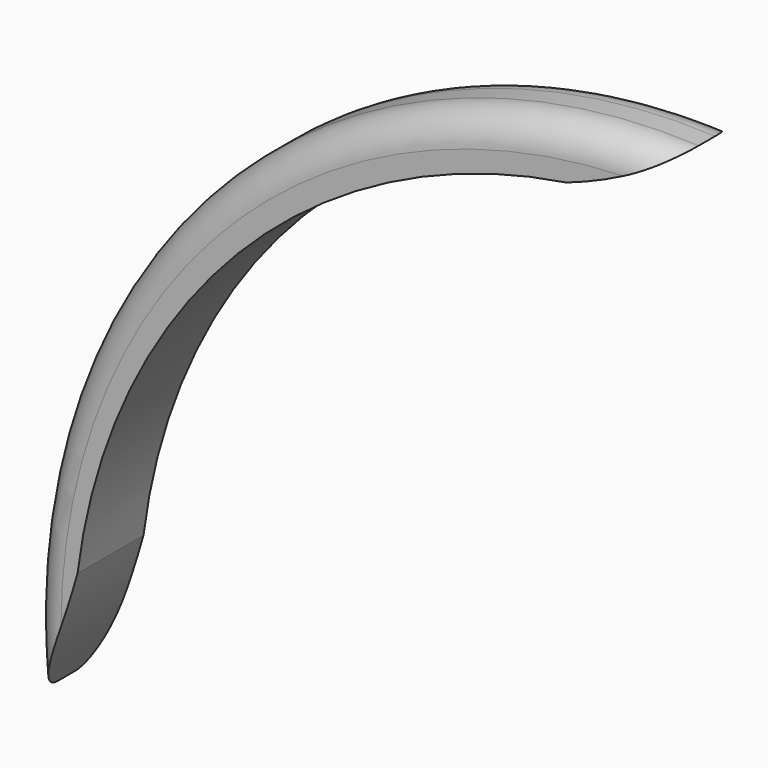
from build123d import *

# Parameters (mm, degrees)
F1_DEPTH = 40
F2_R     = 15


with BuildPart() as f1:
    # F0 (on Front) → F1 (new body)
    with BuildSketch(Plane.XZ):
        with BuildLine():
            ThreePointArc((-276.908899, 25.987628), (-199.2602, 187.752495), (-39.778931, 269.989452))
            ThreePointArc((-39.778931, 269.989452), (-12.78327, 281.447274), (12.343473, 296.569914))
            ThreePointArc((12.343473, 296.569914), (-218.898283, 203.522806), (-298.203224, -32.784707))
            ThreePointArc((-298.203224, -32.784707), (-286.493679, -3.78346), (-276.908899, 25.987628))
        make_face()
    extrude(amount=F1_DEPTH)

    # F2
    f2_edges = [f1.edges().sort_by_distance(p)[0] for p in [
        (-218.898283, 0, 203.522806),
        (-218.898283, -40, 203.522806),
    ]]
    fillet(f2_edges, radius=F2_R)


solid = f1.part
